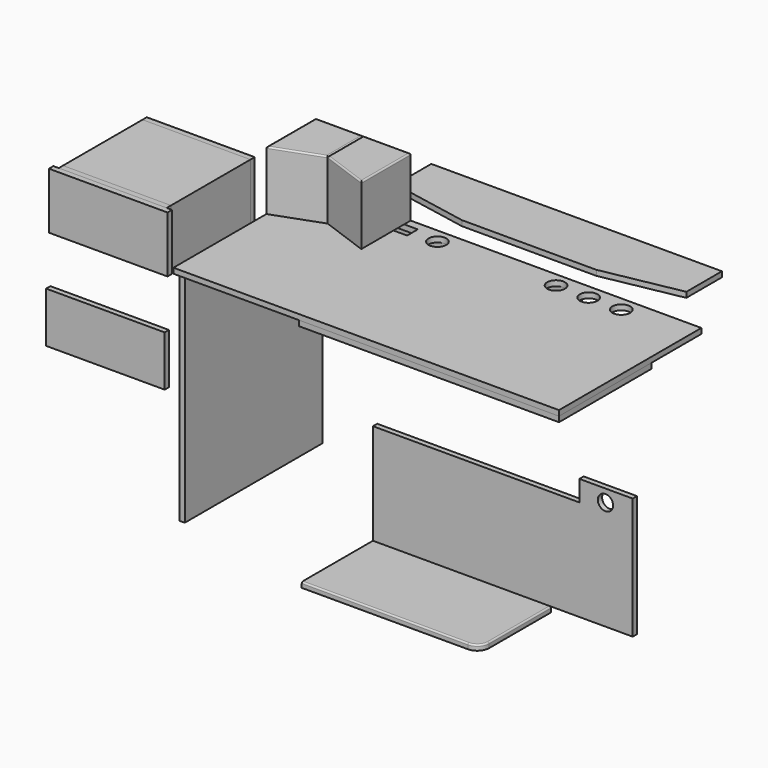
from build123d import *

# Parameters (mm, degrees)
F0_W      = 1300
F0_H      = 600
F0_W_2    = 192
F0_H_2    = 45
F0_R      = 30
F1_DEPTH  = 18
F2_W      = 876
F2_H      = 18
F3_DEPTH  = 60
F4_W      = 876
F4_H      = 138
F4_R      = 30
F5_DEPTH  = 18
F6_W      = 580
F6_H      = 740
F7_DEPTH  = 18
F9_DEPTH  = 200
F10_W     = 364
F10_H     = 190
F10_R     = 55
F11_DEPTH = 18
F12_W     = 364
F12_H     = 190
F12_W_2   = 328
F12_H_2   = 154
F13_DEPTH = 335
F14_W     = 400
F14_H     = 190
F14_R     = 82.5
F15_DEPTH = 18
F16_W     = 364
F16_H     = 190
F17_DEPTH = 18
F18_W     = 876
F18_H     = 390
F19_DEPTH = 18
F20_R     = 25.726034
F21_DEPTH = 18
F23_DEPTH = 18
F24_R     = 5
F25_W     = 400
F25_H     = 170
F26_DEPTH = 18
F27_W     = 400
F27_H     = 190
F28_DEPTH = 1
F30_DEPTH = 18
F31_R     = 5


with BuildPart() as f1:
    # F0 (on Top) → F1 (new body)
    with BuildSketch(Plane.XY):
        Rectangle(F0_W, F0_H)
        with Locations((-380, 250)):
            Rectangle(F0_W_2, F0_H_2, mode=Mode.SUBTRACT)
        with Locations((-200, 250)):
            Circle(F0_R, mode=Mode.SUBTRACT)
        with Locations((200, 250)):
            Circle(F0_R, mode=Mode.SUBTRACT)
        with Locations((310, 250)):
            Circle(F0_R, mode=Mode.SUBTRACT)
        with Locations((420, 250)):
            Circle(F0_R, mode=Mode.SUBTRACT)
    extrude(amount=F1_DEPTH)


with BuildPart() as f3:
    # F2 (on face) → F3 (new body)
    with BuildSketch(Plane(origin=(0, 0, 0), x_dir=(1, 0, 0), z_dir=(0, 0, -1))):
        with Locations((-189.740443, -291)):
            Rectangle(F2_W, F2_H)
    extrude(amount=F3_DEPTH)


with BuildPart() as f5:
    # F4 (on face) → F5 (new body)
    with BuildSketch(Plane(origin=(0, 0, -60), x_dir=(1, 0, 0), z_dir=(0, 0, -1))):
        with Locations((-189.740443, -231)):
            Rectangle(F4_W, F4_H)
        with Locations((188.259557, -230.498597)):
            Circle(F4_R, mode=Mode.SUBTRACT)
    extrude(amount=F5_DEPTH)


with BuildPart() as f7:
    # F6 (on face) → F7 (new body)
    with BuildSketch(Plane(origin=(-627.740443, 0, 0), x_dir=(0, -1, 0), z_dir=(-1, 0, 0))):
        with Locations((-10, -370)):
            Rectangle(F6_W, F6_H)
    extrude(amount=F7_DEPTH)


with BuildPart() as f9:
    # F8 (on face) → F9 (new body)
    with BuildSketch(Plane.XY.offset(18)):
        Polygon((-490, 300), (-650, 300), (-650, 91.764763), (-490, 150), align=None)
    extrude(amount=F9_DEPTH)

    # F31
    f31_edges = [f9.edges().sort_by_distance(p)[0] for p in [
        (-650, 195.882381, 218),
        (-570, 120.882381, 218),
        (-490, 225, 218),
        (-570, 300, 218),
    ]]
    fillet(f31_edges, radius=F31_R)


with BuildPart() as f11:
    # F10 (on Front) → F11 (new body)
    with BuildSketch(Plane.XZ):
        with Locations((-1080.317497, -95)):
            Rectangle(F10_W, F10_H)
        with Locations((-1080.317497, -95)):
            Circle(F10_R, mode=Mode.SUBTRACT)
    extrude(amount=F11_DEPTH)


with BuildPart() as f13:
    # F12 (on face) → F13 (new body)
    with BuildSketch(Plane(origin=(0, 0, 0), x_dir=(-1, 0, 0), z_dir=(0, 1, 0))):
        with Locations((1080.317497, -95)):
            Rectangle(F12_W, F12_H)
        with Locations((1080.317497, -95)):
            Rectangle(F12_W_2, F12_H_2, mode=Mode.SUBTRACT)
    extrude(amount=F13_DEPTH)


with BuildPart() as f15:
    # F14 (on face) → F15 (new body)
    with BuildSketch(Plane.XZ.offset(18)):
        with Locations((-1080.317497, -95)):
            Rectangle(F14_W, F14_H)
        with Locations((-1080.317497, -95)):
            Circle(F14_R, mode=Mode.SUBTRACT)
    extrude(amount=F15_DEPTH)


with BuildPart() as f17:
    # F16 (on face) → F17 (new body)
    with BuildSketch(Plane(origin=(0, 335, 0), x_dir=(-1, 0, 0), z_dir=(0, 1, 0))):
        with Locations((1080.317497, -95)):
            Rectangle(F16_W, F16_H)
    extrude(amount=F17_DEPTH)


with BuildPart() as f19:
    # F18 (on face) → F19 (new body)
    with BuildSketch(Plane(origin=(0, 0, 0), x_dir=(1, 0, 0), z_dir=(0, 0, -1))):
        with Locations((212, 105)):
            Rectangle(F18_W, F18_H)
    extrude(amount=F19_DEPTH)


with BuildPart() as f21:
    # F20 (on Front) → F21 (new body)
    with BuildSketch(Plane.XZ):
        Polygon((-202.982641, -761.721503), (673.017359, -761.721503), (673.017359, -351.721503), (493.017359, -351.721503), (493.017359, -421.721503), (-202.982641, -421.721503), align=None)
        with Locations((581.099927, -393.661082)):
            Circle(F20_R, mode=Mode.SUBTRACT)
    extrude(amount=F21_DEPTH)


with BuildPart() as f23:
    # F22 (on face) → F23 (new body)
    with BuildSketch(Plane(origin=(0, 0, -761.721503), x_dir=(1, 0, 0), z_dir=(0, 0, -1))):
        with BuildLine():
            Line((-202.982641, 318), (-202.982641, 18))
            Line((-202.982641, 18), (397.017359, 18))
            Line((397.017359, 18), (397.017359, 278))
            ThreePointArc((397.017359, 278), (385.301631, 306.284271), (357.017359, 318))
            Line((357.017359, 318), (-202.982641, 318))
        make_face()
    extrude(amount=F23_DEPTH)

    # F24
    f24_edges = [f23.edges().sort_by_distance(p)[0] for p in [
        (77.017359, -318, -761.721503),
        (385.301631, -306.284271, -761.721503),
        (397.017359, -148, -761.721503),
    ]]
    fillet(f24_edges, radius=F24_R)


with BuildPart() as f26:
    # F25 (on face) → F26 (new body)
    with BuildSketch(Plane.XZ.offset(36)):
        with Locations((-1076.199204, -432.686272)):
            Rectangle(F25_W, F25_H)
    extrude(amount=F26_DEPTH)


with BuildPart() as f28:
    # F27 (on face) → F28 (new body)
    with BuildSketch(Plane.XZ.offset(36)):
        with Locations((-1080.317497, -95)):
            Rectangle(F27_W, F27_H)
    extrude(amount=F28_DEPTH)


with BuildPart() as f30:
    # F29 (on face) → F30 (new body)
    with BuildSketch(Plane.XY.offset(18)):
        Polygon((511.982864, 559.202158), (-468.017136, 559.202158), (-468.017136, 409.202158), (-204.449177, 359.202158), (248.414904, 359.202158), (511.982864, 409.202158), align=None)
    extrude(amount=F30_DEPTH)


with BuildPart() as f32_1:
    # F32: instance of F9
    add(f9.part.mirror(Plane(origin=(-490, 225, 115.5), x_dir=(0, 1, 0), z_dir=(1, 0, 0))))


solid = Compound([f1.part, f3.part, f5.part, f7.part, f9.part, f11.part, f13.part, f15.part, f17.part, f19.part, f21.part, f23.part, f26.part, f28.part, f30.part, f32_1.part])
